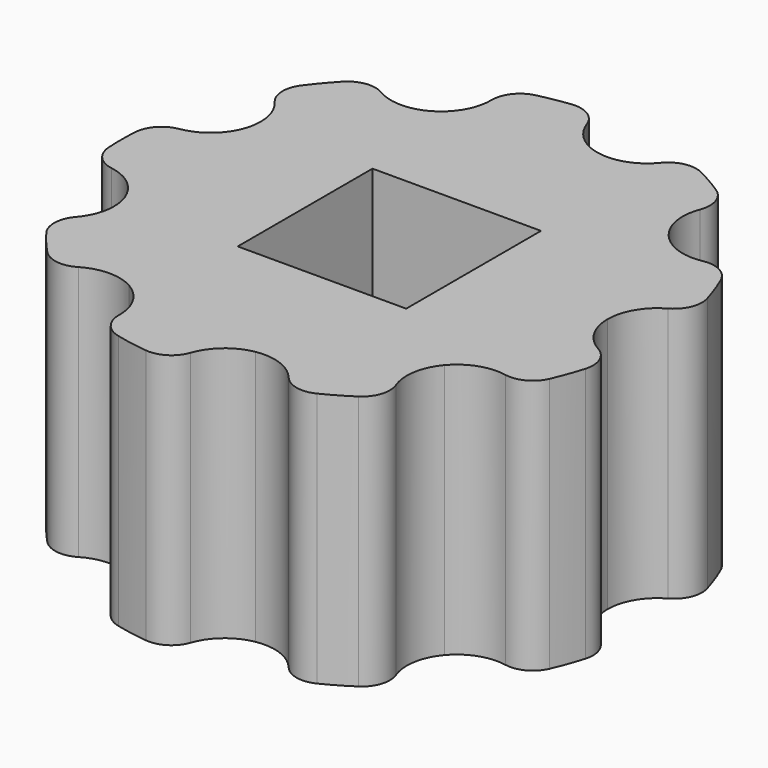
from build123d import *

# Parameters (mm, degrees)
SKETCH_R           = 10.5
SKETCH_W           = 6.6
SKETCH_H           = 6.6
PAD_DEPTH          = 10
POCKET001_DEPTH    = 72.674758
POLARPATTERN_COUNT = 9


with BuildPart() as part:
    # Sketch → Pad (new body)
    with BuildSketch(Plane.XY):
        Circle(SKETCH_R)
        Rectangle(SKETCH_W, SKETCH_H, mode=Mode.SUBTRACT)
    extrude(amount=PAD_DEPTH)

    # Sketch002 → Pocket001 (cut, through all)
    with BuildSketch(Plane.XY.offset(10)):
        with BuildLine():
            ThreePointArc((10.067451, -2.982687), (13.513887, -1e-06), (10.067452, 2.982686))
            ThreePointArc((9.547792, 1.707898), (10.03134, 2.254095), (10.067452, 2.982686))
            ThreePointArc((9.547792, 1.707898), (8.813944, 0.990369), (8.544593, 0))
            ThreePointArc((8.544593, 0), (8.813944, -0.990369), (9.547792, -1.707898))
            ThreePointArc((10.067451, -2.982687), (10.03134, -2.254096), (9.547792, -1.707898))
        make_face()
    pocket001 = extrude(amount=-POCKET001_DEPTH, mode=Mode.SUBTRACT)

    # PolarPattern: Pocket001 ×9 about axis
    polarpattern_axis = Axis((0, 0, 10), (0, 0, 1))
    for i in range(1, POLARPATTERN_COUNT):
        add(pocket001.rotate(polarpattern_axis, i * 360 / POLARPATTERN_COUNT), mode=Mode.SUBTRACT)


solid = part.part
